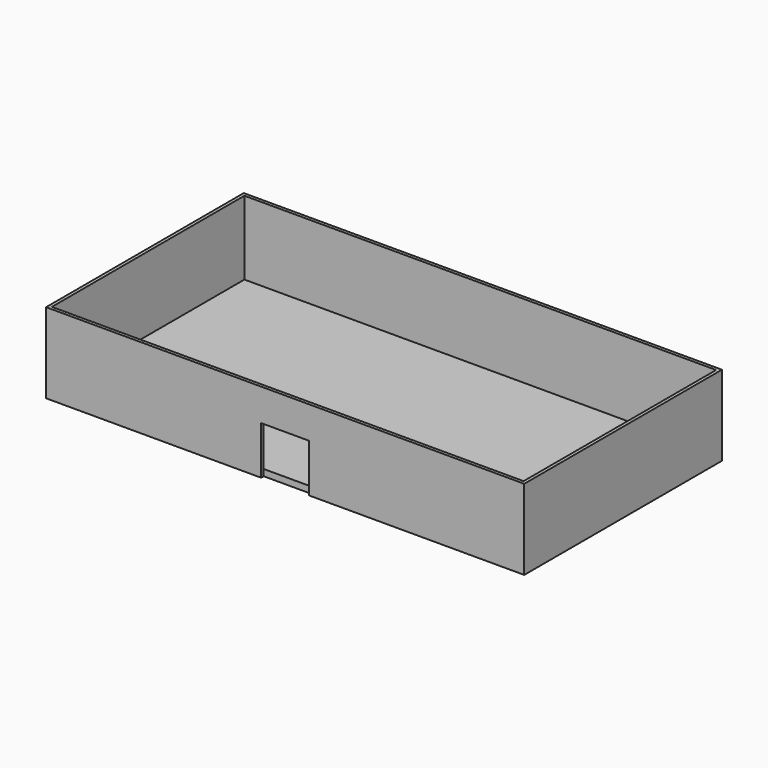
from build123d import *

# Parameters (mm, degrees)
F0_W     = 149
F0_H     = 77
F1_DEPTH = 25
F2_W     = 147
F2_H     = 75
F3_DEPTH = 23
F4_W     = 15
F4_H     = 15
F5_DEPTH = 1


with BuildPart() as f1:
    # F0 (on Top) → F1 (new body)
    with BuildSketch(Plane.XY):
        Rectangle(F0_W, F0_H)
    extrude(amount=F1_DEPTH)

    # F2 (on face) → F3 (cut)
    with BuildSketch(Plane.XY.offset(25)):
        Rectangle(F2_W, F2_H)
    extrude(amount=-F3_DEPTH, mode=Mode.SUBTRACT)

    # F4 (on face) → F5 (cut)
    with BuildSketch(Plane.XZ.offset(38.5)):
        with Locations((0, 7.5)):
            Rectangle(F4_W, F4_H)
    extrude(amount=-F5_DEPTH, mode=Mode.SUBTRACT)


solid = f1.part
